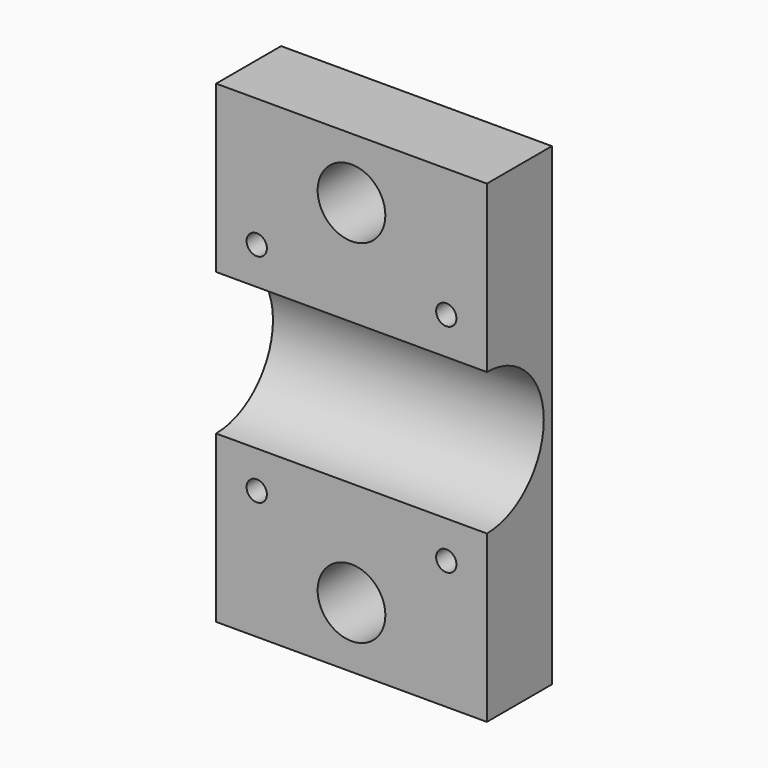
from build123d import *

# Parameters (mm, degrees)
F0_W     = 40
F0_H     = 70
F0_R     = 1.5
F0_R_2   = 5
F1_DEPTH = 12
F3_DEPTH = 40.001


with BuildPart() as f1:
    # F0 (on Front) → F1 (new body)
    with BuildSketch(Plane.XZ):
        with Locations((20, 35)):
            Rectangle(F0_W, F0_H)
        with Locations((6, 19)):
            Circle(F0_R, mode=Mode.SUBTRACT)
        with Locations((20, 9)):
            Circle(F0_R_2, mode=Mode.SUBTRACT)
        with Locations((34, 19)):
            Circle(F0_R, mode=Mode.SUBTRACT)
        with Locations((6, 51)):
            Circle(F0_R, mode=Mode.SUBTRACT)
        with Locations((34, 51)):
            Circle(F0_R, mode=Mode.SUBTRACT)
        with Locations((20, 61)):
            Circle(F0_R_2, mode=Mode.SUBTRACT)
    extrude(amount=F1_DEPTH)

    # F2 (on face) → F3 (cut, through all)
    with BuildSketch(Plane.YZ.offset(40)):
        with BuildLine():
            ThreePointArc((-12, 24.5), (-1.5, 35), (-12, 45.5))
            Line((-12, 45.5), (-12, 24.5))
        make_face()
    extrude(amount=-F3_DEPTH, mode=Mode.SUBTRACT)


solid = f1.part
